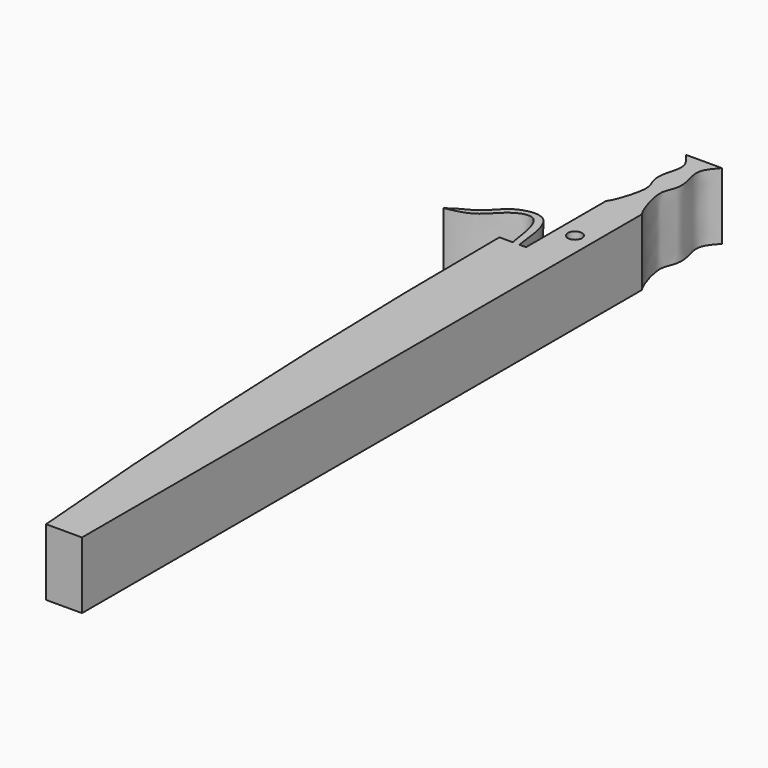
from build123d import *

# Parameters (mm, degrees)
F0_R     = 0.6750562138
F1_DEPTH = 6.35


with BuildPart() as f1:
    # F0 (on Top) → F1 (new body)
    with BuildSketch(Plane.XY):
        with BuildLine():
            Line((0, 57.15), (0, 0))
            Line((0, 0), (3.419047772, 0))
            Line((3.419047772, 0), (3.419047772, 66.675))
            add(Edge.make_bspline(
                [(3.419047772, 76.2), (3.0037245486, 75.7300271424), (2.1227516333, 74.7338041598), (2.7931024976, 72.9988795595), (2.8678197081, 71.6540162547), (2.3885468254, 70.6950296341), (2.2938936407, 69.6351160517), (2.9086507893, 67.4280476767), (3.419047772, 66.675)],
                knots=[0, 0, 0, 0, 0.1770581904, 0.3490122219, 0.5008356976, 0.630484, 0.7669570949, 1, 1, 1, 1], degree=3))
            Line((3.419047772, 76.2), (1.709523886, 76.2))
            Line((1.709523886, 76.2), (0, 76.2))
            add(Edge.make_bspline(
                [(0, 76.2), (0.4153232234, 75.7300271424), (1.2962961387, 74.7338041598), (0.6259452744, 72.9988795595), (0.5512280639, 71.6540162547), (1.0305009466, 70.6950296341), (1.1251541313, 69.6351160517), (0.5103969827, 67.4280476767), (0, 66.675)],
                knots=[0, 0, 0, 0, 0.1770581904, 0.3490122219, 0.5008356976, 0.630484, 0.7669570949, 1, 1, 1, 1], degree=3))
            Line((0, 66.675), (0, 57.15))
        make_face()
        with Locations((1.6730700154, 60.8820840716)):
            Circle(F0_R, mode=Mode.SUBTRACT)
        with BuildLine():
            ThreePointArc((-2.54, 57.15), (-1.9046867291, 28.5467917009), (0, 0))
            Line((0, 0), (0, 57.15))
            Line((0, 57.15), (-0.635, 57.15))
            Line((-0.635, 57.15), (-1.27, 57.15))
            Line((-1.27, 57.15), (-2.54, 57.15))
        make_face()
        with BuildLine():
            Line((-1.27, 57.15), (-0.635, 57.15))
            add(Edge.make_bspline(
                [(-0.635, 57.15), (-0.8344189409, 58.9685787976), (-1.1646933693, 61.9804796245), (-3.8316234786, 61.8411399026), (-5.2090319123, 60.962088431), (-6.2474716265, 59.5864787743), (-7.6780619172, 58.9591241724), (-8.3874736715, 58.4690696755), (-8.7246154109, 58.2361426137)],
                knots=[0, 0, 0, 0, 0.2507983374, 0.4153681549, 0.5668719339, 0.7203130141, 0.8670255908, 0.9999167765, 0.9999167765, 0.9999167765, 0.9999167765], degree=3))
            add(Edge.make_bspline(
                [(-1.27, 57.15), (-1.5163936563, 58.9164716506), (-1.9327165615, 61.901218176), (-4.7450355941, 60.7938230612), (-6.0475443647, 58.8080385101), (-8.0794495379, 58.3521382776), (-8.5982206433, 58.25792169), (-8.7246154109, 58.2361426137)],
                knots=[0, 0, 0, 0, 0.28126173, 0.4752382927, 0.6918546924, 0.8897828277, 0.9638641037, 0.9638641037, 0.9638641037, 0.9638641037], degree=3))
        make_face()
    extrude(amount=F1_DEPTH)


solid = f1.part
